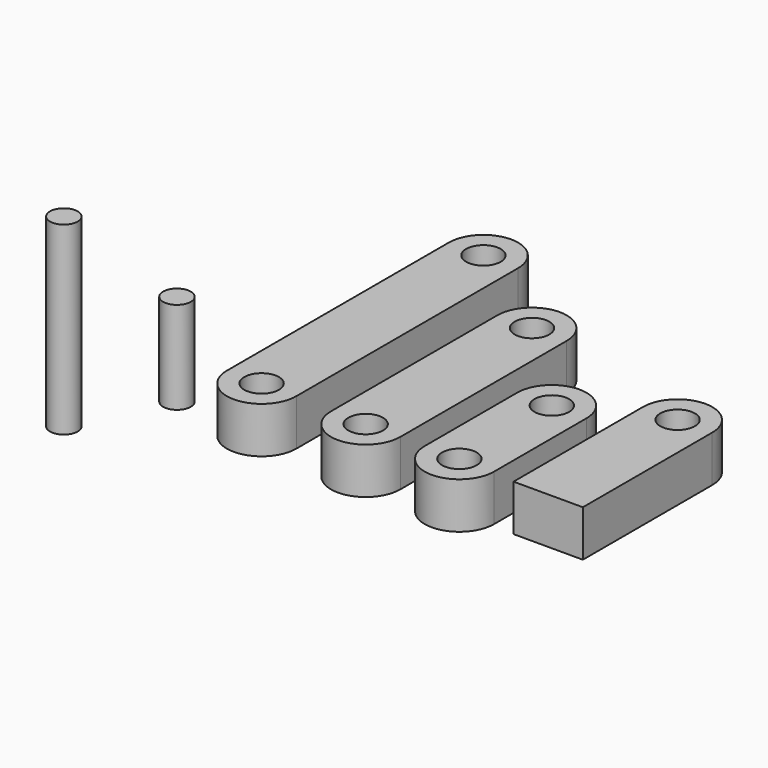
from build123d import *

# Parameters (mm, degrees)
F1_R      = 7.5
F2_DEPTH  = 20
F3_R      = 7.5
F4_DEPTH  = 20
F5_R      = 7.5
F6_DEPTH  = 20
F7_R      = 7.5
F8_DEPTH  = 20
F9_R      = 6
F10_DEPTH = 40
F11_R     = 6
F12_DEPTH = 80


with BuildPart() as f2:
    # F1 (on Top) → F2 (new body)
    with BuildSketch(Plane.XY):
        with BuildLine():
            Line((0, 70), (0, 0))
            Line((0, 0), (30, 0))
            Line((30, 0), (30, 70))
            ThreePointArc((30, 70), (15, 85), (0, 70))
        make_face()
        with Locations((15, 70)):
            Circle(F1_R, mode=Mode.SUBTRACT)
    extrude(amount=F2_DEPTH)


with BuildPart() as f4:
    # F3 (on Top) → F4 (new body)
    with BuildSketch(Plane.XY):
        with BuildLine():
            Line((-39.7190231457, 51.6017495219), (-39.7190231457, 1.6017495219))
            ThreePointArc((-39.7190231457, 1.6017495219), (-24.7190231457, -13.3982504781), (-9.7190231457, 1.6017495219))
            Line((-9.7190231457, 1.6017495219), (-9.7190231457, 51.6017495219))
            ThreePointArc((-9.7190231457, 51.6017495219), (-24.7190231457, 66.6017495219), (-39.7190231457, 51.6017495219))
        make_face()
        with Locations((-24.7190231457, 1.6017495219)):
            Circle(F3_R, mode=Mode.SUBTRACT)
        with Locations((-24.7190231457, 51.6017495219)):
            Circle(F3_R, mode=Mode.SUBTRACT)
    extrude(amount=F4_DEPTH)


with BuildPart() as f6:
    # F5 (on Top) → F6 (new body)
    with BuildSketch(Plane.XY):
        with BuildLine():
            Line((-80.3273612261, 91.6679674387), (-80.3273612261, 1.6679674387))
            ThreePointArc((-80.3273612261, 1.6679674387), (-65.3273612261, -13.3320325613), (-50.3273612261, 1.6679674387))
            Line((-50.3273612261, 1.6679674387), (-50.3273612261, 91.6679674387))
            ThreePointArc((-50.3273612261, 91.6679674387), (-65.3273612261, 106.6679674387), (-80.3273612261, 91.6679674387))
        make_face()
        with Locations((-65.3273612261, 1.6679674387)):
            Circle(F5_R, mode=Mode.SUBTRACT)
        with Locations((-65.3273612261, 91.6679674387)):
            Circle(F5_R, mode=Mode.SUBTRACT)
    extrude(amount=F6_DEPTH)


with BuildPart() as f8:
    # F7 (on Top) → F8 (new body)
    with BuildSketch(Plane.XY):
        with BuildLine():
            Line((-126.3912388682, 122.9525510035), (-126.3912388682, 2.9525510035))
            ThreePointArc((-126.3912388682, 2.9525510035), (-111.3912388682, -12.0474489965), (-96.3912388682, 2.9525510035))
            Line((-96.3912388682, 2.9525510035), (-96.3912388682, 122.9525510035))
            ThreePointArc((-96.3912388682, 122.9525510035), (-111.3912388682, 137.9525510035), (-126.3912388682, 122.9525510035))
        make_face()
        with Locations((-111.3912388682, 2.9525510035)):
            Circle(F7_R, mode=Mode.SUBTRACT)
        with Locations((-111.3912388682, 122.9525510035)):
            Circle(F7_R, mode=Mode.SUBTRACT)
    extrude(amount=F8_DEPTH)


with BuildPart() as f10:
    # F9 (on Top) → F10 (new body)
    with BuildSketch(Plane.XY):
        with Locations((-149.3688076735, 4.637687467)):
            Circle(F9_R)
    extrude(amount=F10_DEPTH)


with BuildPart() as f12:
    # F11 (on Top) → F12 (new body)
    with BuildSketch(Plane.XY):
        with Locations((-167.9094731808, -33.383179456)):
            Circle(F11_R)
    extrude(amount=F12_DEPTH)


solid = Compound([f2.part, f4.part, f6.part, f8.part, f10.part, f12.part])
